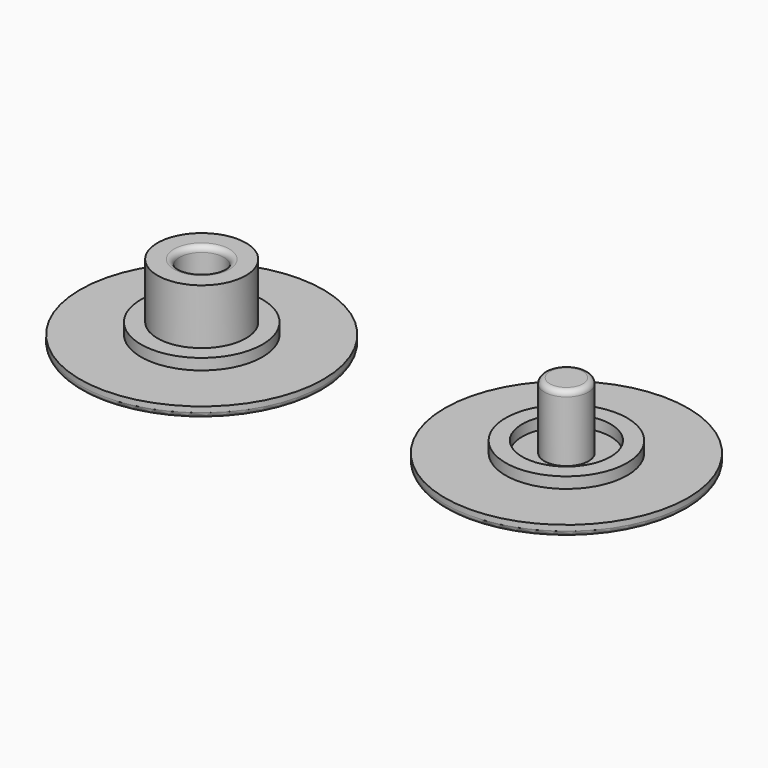
from build123d import *

# Parameters (mm, degrees)
F0_R     = 11
F0_R_2   = 5.5
F1_DEPTH = 1
F2_DEPTH = 1
F0_R_3   = 4
F3_DEPTH = 2
F0_R_4   = 2
F4_DEPTH = 7
F5_DEPTH = 1
F6_R     = 0.5
F6_2_R   = 0.5
F7_R     = 0.5


with BuildPart() as f1:
    # F0 (on Top) → F1 (new body)
    with BuildSketch(Plane.XY):
        with Locations((15.240614, -0.532838)):
            Circle(F0_R)
        with Locations((15.240614, -0.532838)):
            Circle(F0_R_2, mode=Mode.SUBTRACT)
    extrude(amount=F1_DEPTH)

    # F6
    f6_edges = [f1.edges().sort_by_distance(p)[0] for p in [
        (4.240614, -0.532838, 0),
    ]]
    fillet(f6_edges, radius=F6_R)


with BuildPart() as f2:
    # F0 (on Top) → F2 (new body)
    with BuildSketch(Plane.XY):
        with Locations((-16.200279, -2.476575)):
            Circle(F0_R)
        with Locations((-16.200279, -2.476575)):
            Circle(F0_R_2, mode=Mode.SUBTRACT)
    extrude(amount=F2_DEPTH)

    # F6#2
    f6_2_edges = [f2.edges().sort_by_distance(p)[0] for p in [
        (-27.200279, -2.476575, 0),
    ]]
    fillet(f6_2_edges, radius=F6_2_R)


with BuildPart() as f3:
    # F0 (on Top) → F3 (new body)
    with BuildSketch(Plane.XY):
        with Locations((-16.200279, -2.476575)):
            Circle(F0_R_2)
        with Locations((-16.200279, -2.476575)):
            Circle(F0_R_3, mode=Mode.SUBTRACT)
        with Locations((15.240614, -0.532838)):
            Circle(F0_R_2)
        with Locations((15.240614, -0.532838)):
            Circle(F0_R_3, mode=Mode.SUBTRACT)
    extrude(amount=F3_DEPTH)

    # F0 (on Top) → F4 (join)
    with BuildSketch(Plane.XY):
        with Locations((-16.200279, -2.476575)):
            Circle(F0_R_3)
        with Locations((-16.200279, -2.476575)):
            Circle(F0_R_4, mode=Mode.SUBTRACT)
        with Locations((15.240614, -0.532838)):
            Circle(F0_R_4)
    extrude(amount=F4_DEPTH)

    # F7
    f7_edges = [f3.edges().sort_by_distance(p)[0] for p in [
        (13.240614, -0.532838, 7),
        (-18.200279, -2.476575, 7),
    ]]
    fillet(f7_edges, radius=F7_R)


with BuildPart() as f5:
    # F0 (on Top) → F5 (new body)
    with BuildSketch(Plane.XY):
        with Locations((-16.200279, -2.476575)):
            Circle(F0_R_4)
        with Locations((15.240614, -0.532838)):
            Circle(F0_R_3)
        with Locations((15.240614, -0.532838)):
            Circle(F0_R_4, mode=Mode.SUBTRACT)
    extrude(amount=F5_DEPTH)


solid = Compound([f1.part, f2.part, f3.part, f5.part])
